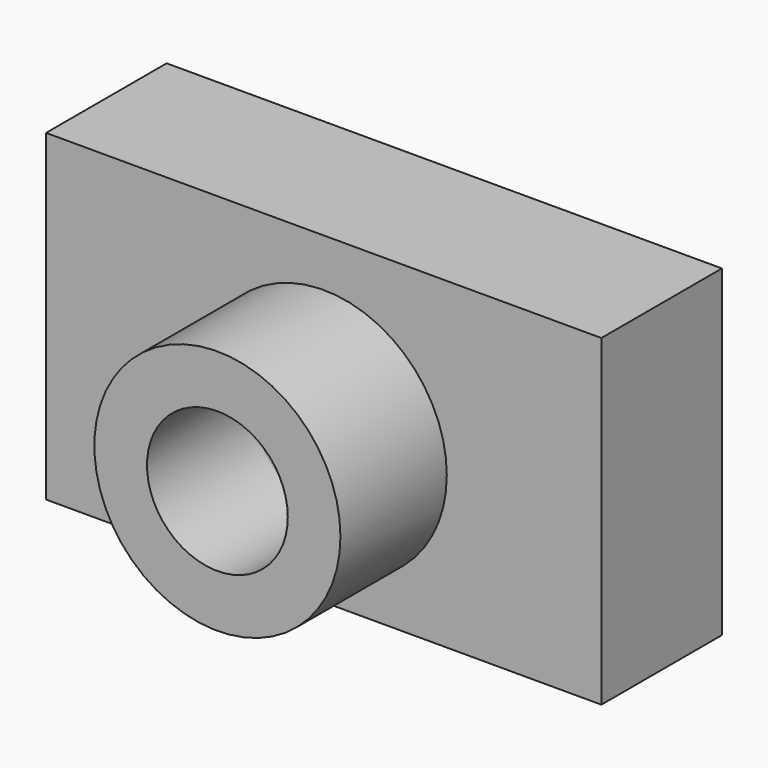
from build123d import *

# Parameters (mm, degrees)
F0_W     = 118.841722
F0_H     = 32.246224
F1_DEPTH = 69.088
F2_R     = 15.064015
F3_DEPTH = 104.648
F2_R_2   = 26.33517
F4_DEPTH = 28.448


with BuildPart() as f1:
    # F0 (on Top) → F1 (new body)
    with BuildSketch(Plane.XY):
        Rectangle(F0_W, F0_H)
    extrude(amount=F1_DEPTH)

    # F2 (on face) → F3 (cut)
    with BuildSketch(Plane.XZ.offset(16.123112)):
        with Locations((0, 32.48496)):
            Circle(F2_R)
    extrude(amount=-F3_DEPTH, mode=Mode.SUBTRACT)

    # F2 (on face) → F4 (join)
    with BuildSketch(Plane.XZ.offset(16.123112)):
        with Locations((0, 32.48496)):
            Circle(F2_R_2)
        with Locations((0, 32.48496)):
            Circle(F2_R, mode=Mode.SUBTRACT)
    extrude(amount=F4_DEPTH)


solid = f1.part
